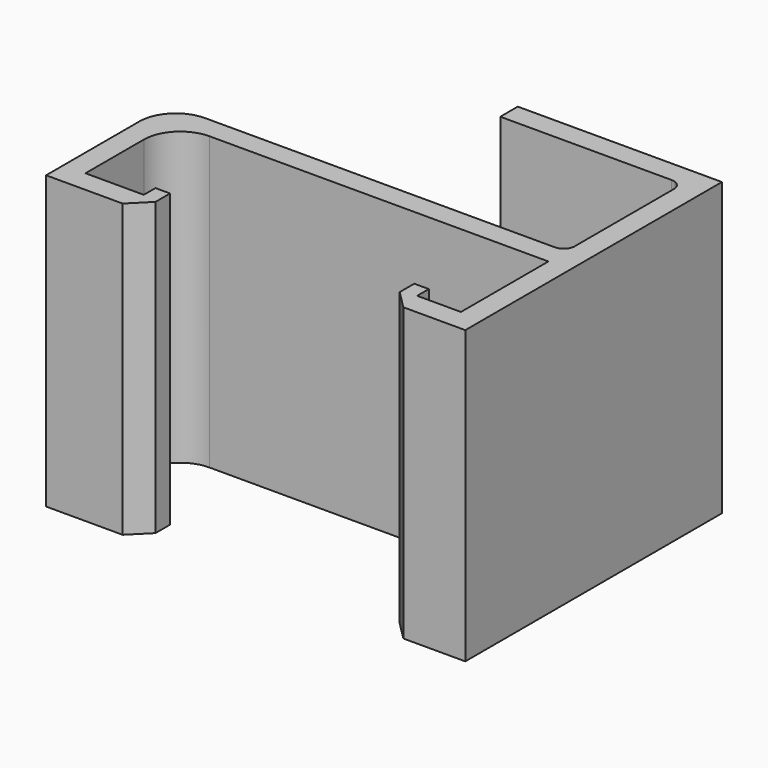
from build123d import *

# Parameters (mm, degrees)
F1_DEPTH = 40
F2_SIZE  = 2.5
F3_R     = 1.5


with BuildPart() as f1:
    # F0 (on Top) → F1 (new body)
    with BuildSketch(Plane.XY):
        with BuildLine():
            Line((0, -3), (0, 0))
            Line((0, 0), (0, 18))
            Line((0, 18), (0, 41))
            Line((0, 41), (-28, 41))
            Line((-28, 41), (-28, 38))
            Line((-28, 38), (-3, 38))
            Line((-3, 38), (-3, 18))
            Line((-3, 18), (-52.5, 18))
            ThreePointArc((-52.5, 18), (-56.035534, 16.535534), (-57.5, 13))
            Line((-57.5, 13), (-57.5, -3))
            Line((-57.5, -3), (-53, -3))
            Line((-53, -3), (-44.5, -3))
            Line((-44.5, -3), (-44.5, 0))
            Line((-44.5, 0), (-44.5, 2))
            Line((-44.5, 2), (-46.5, 2))
            Line((-46.5, 2), (-46.5, 0))
            Line((-46.5, 0), (-54.5, 0))
            Line((-54.5, 0), (-54.5, 10))
            ThreePointArc((-54.5, 10), (-53.035534, 13.535534), (-49.5, 15))
            Line((-49.5, 15), (-3, 15))
            Line((-3, 15), (-3, 0))
            Line((-3, 0), (-9, 0))
            Line((-9, 0), (-9, 2))
            Line((-9, 2), (-11, 2))
            Line((-11, 2), (-11, 0))
            Line((-11, 0), (-11, -3))
            Line((-11, -3), (0, -3))
        make_face()
    extrude(amount=F1_DEPTH)

    # F2
    f2_edges = [f1.edges().sort_by_distance(p)[0] for p in [
        (-11, -3, 20),
        (-44.5, -3, 20),
    ]]
    chamfer(f2_edges, length=F2_SIZE)

    # F3
    f3_edges = [f1.edges().sort_by_distance(p)[0] for p in [
        (-3, 18, 20),
        (-3, 38, 20),
    ]]
    fillet(f3_edges, radius=F3_R)


solid = f1.part
